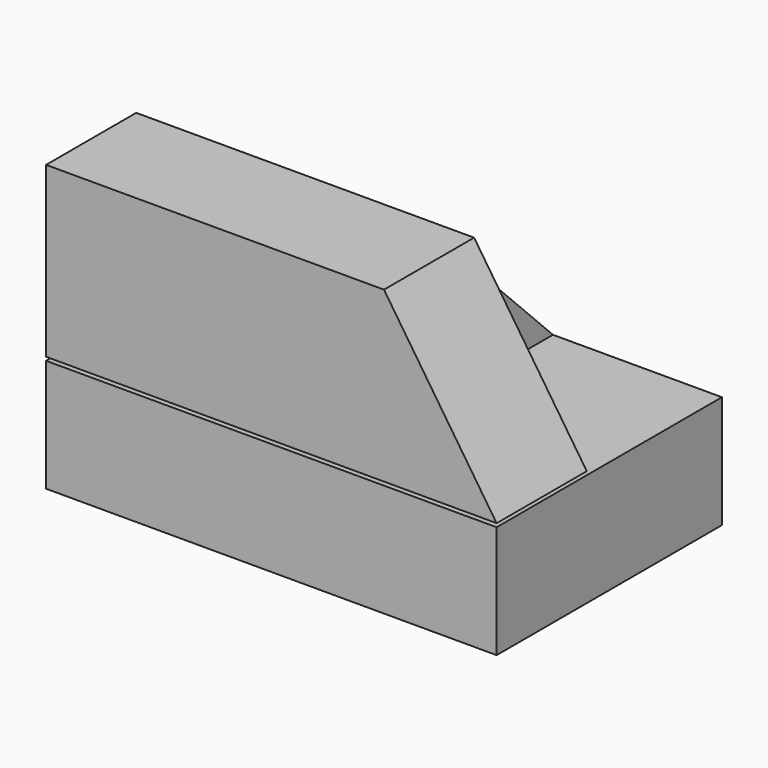
from build123d import *

# Parameters (mm, degrees)
F0_W     = 50.8
F0_H     = 31.75
F1_DEPTH = 12.7
F3_DEPTH = 12.7
F5_DEPTH = 19.05
F6_DEPTH = 12.7


with BuildPart() as f1:
    # F0 (on Top) → F1 (new body)
    with BuildSketch(Plane.XY):
        with Locations((25.4, 15.875)):
            Rectangle(F0_W, F0_H)
    extrude(amount=F1_DEPTH)


with BuildPart() as f3:
    # F2 (on Front) → F3 (new body)
    with BuildSketch(Plane.XZ):
        Polygon((0, 32.1494329229), (0, 13.0994329229), (50.8, 13.0994329229), (38.1, 32.1494329229), align=None)
    extrude(amount=-F3_DEPTH)


with BuildPart() as f5:
    # F4 (on face) → F5 (new body)
    with BuildSketch(Plane(origin=(0, 0, 0), x_dir=(0, -1, 0), z_dir=(-1, 0, 0))):
        Polygon((-12.7, 31.75), (-31.75, 12.7), (-12.7, 12.7), align=None)
    extrude(amount=-F5_DEPTH)


with BuildPart() as f6:
    # F6 (new): a face of the model
    f6_faces = [f5.part.faces().sort_by_distance(p)[0] for p in [
        (19.05, 19.05, 19.05),
    ]]
    extrude(f6_faces, amount=F6_DEPTH)


solid = Compound([f1.part, f3.part, f6.part])
